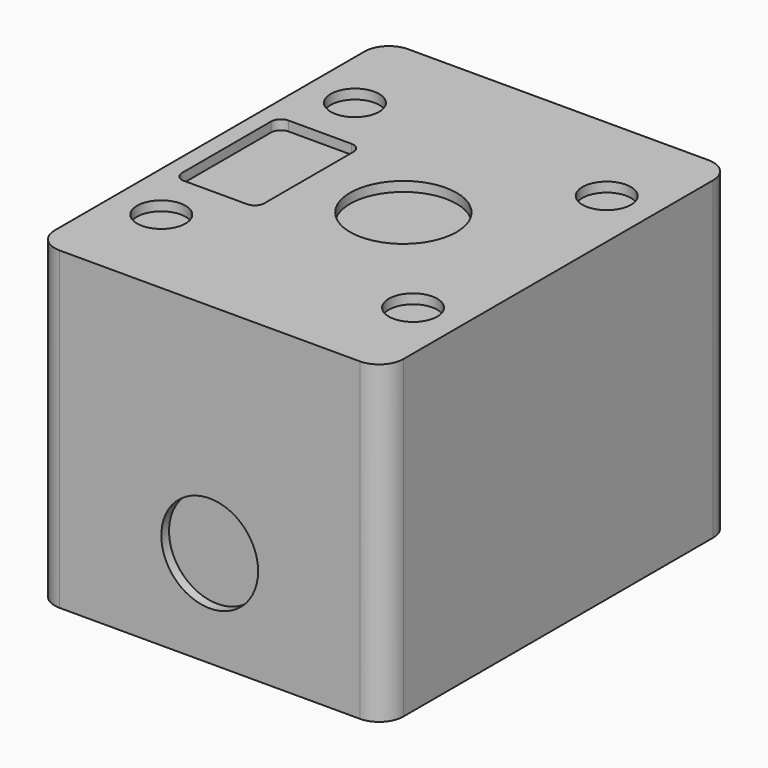
from build123d import *

# Parameters (mm, degrees)
F1_DEPTH = 65
F2_R     = 11
F2_R_2   = 5
F3_DEPTH = 2
F4_R     = 10
F5_DEPTH = 2
F6_R     = 10
F7_DEPTH = 2
F8_R     = 2.5
F9_DEPTH = 25


with BuildPart() as f1:
    # F0 (on Top) → F1 (new body)
    with BuildSketch(Plane.XY):
        with BuildLine():
            Line((-31, -45), (31, -45))
            ThreePointArc((31, -45), (34.535534, -43.535534), (36, -40))
            Line((36, -40), (36, 40))
            ThreePointArc((36, 40), (34.535534, 43.535534), (31, 45))
            Line((31, 45), (-31, 45))
            ThreePointArc((-31, 45), (-34.535534, 43.535534), (-36, 40))
            Line((-36, 40), (-36, -40))
            ThreePointArc((-36, -40), (-34.535534, -43.535534), (-31, -45))
        make_face()
    extrude(amount=F1_DEPTH)

    # F2 (on face) → F3 (cut)
    with BuildSketch(Plane.XY.offset(65)):
        with Locations((4, 0)):
            Circle(F2_R)
        with BuildLine():
            ThreePointArc((-15.5, 11.5), (-16.085786, 12.914214), (-17.5, 13.5))
            Line((-17.5, 13.5), (-30.5, 13.5))
            ThreePointArc((-30.5, 13.5), (-31.914214, 12.914214), (-32.5, 11.5))
            Line((-32.5, 11.5), (-32.5, -11.5))
            ThreePointArc((-32.5, -11.5), (-31.914214, -12.914214), (-30.5, -13.5))
            Line((-30.5, -13.5), (-17.5, -13.5))
            ThreePointArc((-17.5, -13.5), (-16.085786, -12.914214), (-15.5, -11.5))
            Line((-15.5, -11.5), (-15.5, 11.5))
        make_face()
        with Locations((-26, 25)):
            Circle(F2_R_2)
        with Locations((26, 25)):
            Circle(F2_R_2)
        with Locations((26, -25)):
            Circle(F2_R_2)
        with Locations((-26, -25)):
            Circle(F2_R_2)
    extrude(amount=-F3_DEPTH, mode=Mode.SUBTRACT)

    # F4 (on face) → F5 (cut)
    with BuildSketch(Plane(origin=(0, 45, 0), x_dir=(-1, 0, 0), z_dir=(0, 1, 0))):
        with Locations((0, 20)):
            Circle(F4_R)
    extrude(amount=-F5_DEPTH, mode=Mode.SUBTRACT)

    # F6 (on face) → F7 (cut)
    with BuildSketch(Plane.XZ.offset(45)):
        with Locations((0, 20)):
            Circle(F6_R)
    extrude(amount=-F7_DEPTH, mode=Mode.SUBTRACT)

    # F8 (on face) → F9 (cut)
    with BuildSketch(Plane(origin=(0, 0, 0), x_dir=(1, 0, 0), z_dir=(0, 0, -1))):
        with Locations((28.5, -37)):
            Circle(F8_R)
        with Locations((-28.5, -37)):
            Circle(F8_R)
        with Locations((-28.5, 37)):
            Circle(F8_R)
        with Locations((28.5, 37)):
            Circle(F8_R)
    extrude(amount=-F9_DEPTH, mode=Mode.SUBTRACT)


solid = f1.part
